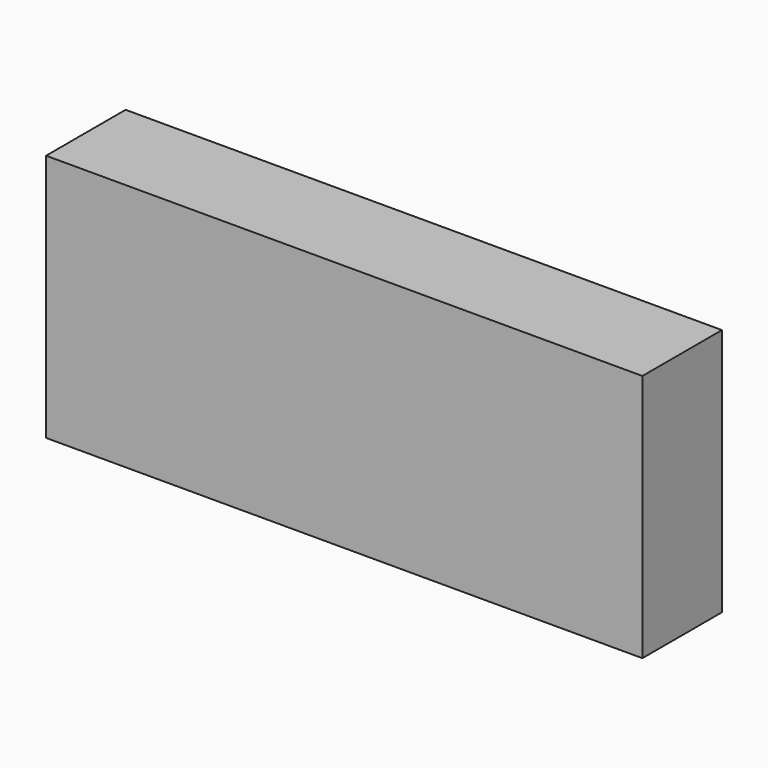
from build123d import *

# Parameters (mm, degrees)
F0_W     = 1828.8
F0_H     = 762
F1_DEPTH = 304.8
F2_T     = -2.54
F4_D     = 76.2
F4_DEPTH = 12.7
F5_W     = 12.7
F5_H     = 756.92
F6_DEPTH = 304.8


with BuildPart() as f1:
    # F0 (on Front) → F1 (new body)
    with BuildSketch(Plane.XZ):
        with Locations((453.363994, 8.726588)):
            Rectangle(F0_W, F0_H)
    extrude(amount=F1_DEPTH)

    # F2
    f2_openings = [f1.faces().sort_by_distance(p)[0] for p in [
        (453.363994, 0, 8.726588),
    ]]
    offset(amount=F2_T, openings=f2_openings)

    # F4
    with Locations(Plane(origin=(0, 0, -372.273412), x_dir=(1, 0, 0), z_dir=(0, 0, -1))):
        with Locations((-236.677806, 152.4), (-84.277806, 152.4), (389.872461, 152.4), (542.272461, 152.4), (991.005794, 152.4), (1143.405794, 152.4)):
            Hole(F4_D / 2, depth=F4_DEPTH)

    # F5 (on face) → F6 (join)
    with BuildSketch(Plane(origin=(0, -302.26, 0), x_dir=(-1, 0, 0), z_dir=(0, 1, 0))):
        with Locations((-760.289127, 8.726588)):
            Rectangle(F5_W, F5_H)
        with Locations((-146.455794, 8.726588)):
            Rectangle(F5_W, F5_H)
    extrude(amount=F6_DEPTH)


solid = f1.part
